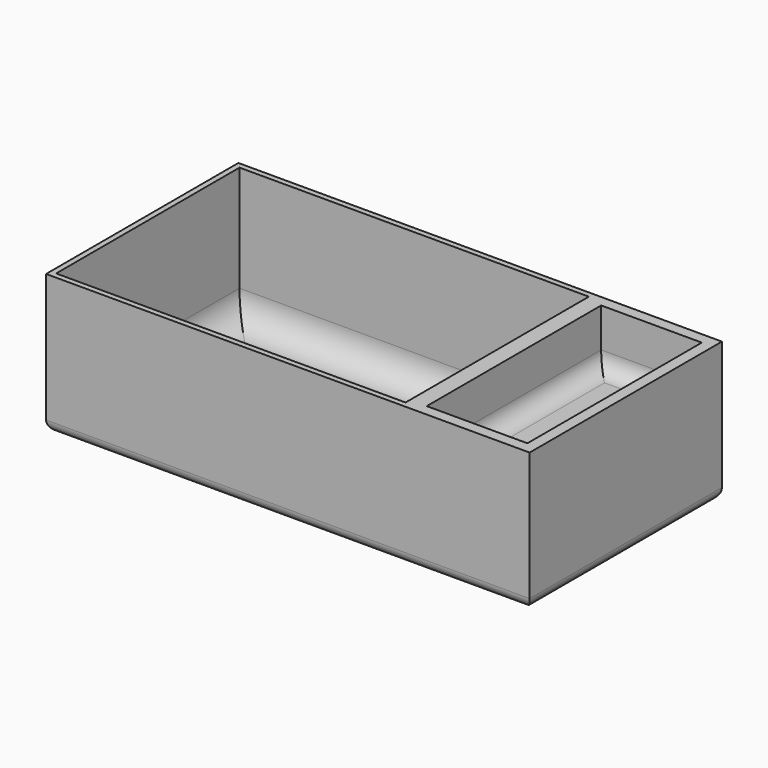
from build123d import *

# Parameters (mm, degrees)
SKETCH002_W     = 64.5
SKETCH002_H     = 43
PAD001_DEPTH    = 25
THICKNESS_T     = -1
FILLET001_R     = 5
SKETCH008_W     = 43
SKETCH008_H     = 25
PAD006_DEPTH    = 22
SKETCH009_W     = 18
SKETCH009_H     = 39
POCKET002_DEPTH = 10
FILLET005_R     = 3
FILLET006_R     = 2


with BuildPart() as part:
    # Sketch002 → Pad001 (new body)
    with BuildSketch(Plane.XY):
        Rectangle(SKETCH002_W, SKETCH002_H)
    extrude(amount=PAD001_DEPTH)

    # Thickness
    thickness_openings = [part.faces().sort_by_distance(p)[0] for p in [
        (0, 0, 25),
    ]]
    offset(amount=THICKNESS_T, openings=thickness_openings)

    # Fillet001
    fillet001_edges = [part.edges().sort_by_distance(p)[0] for p in [
        (0, 20.5, 1),
        (31.25, 0, 1),
        (0, -20.5, 1),
        (-31.25, 0, 1),
    ]]
    fillet(fillet001_edges, radius=FILLET001_R)

    # Sketch008 (on DatumPlane) → Pad006 (join)
    with BuildSketch(Plane.YZ.offset(32.25)):
        with Locations((0, 12.5)):
            Rectangle(SKETCH008_W, SKETCH008_H)
    extrude(amount=PAD006_DEPTH)

    # Sketch009 (on DatumPlane) → Pocket002 (cut)
    with BuildSketch(Plane.XY.offset(25)):
        with Locations((43.25, 0)):
            Rectangle(SKETCH009_W, SKETCH009_H)
    extrude(amount=-POCKET002_DEPTH, mode=Mode.SUBTRACT)

    # Fillet005
    fillet005_edges = [part.edges().sort_by_distance(p)[0] for p in [
        (43.25, 19.5, 15),
        (52.25, 0, 15),
        (43.25, -19.5, 15),
        (34.25, 0, 15),
    ]]
    fillet(fillet005_edges, radius=FILLET005_R)

    # Fillet006
    fillet006_edges = [part.edges().sort_by_distance(p)[0] for p in [
        (0, 21.5, 0),
        (32.25, 0, 0),
        (0, -21.5, 0),
        (-32.25, 0, 0),
        (43.25, 21.5, 0),
        (43.25, -21.5, 0),
        (54.25, 0, 0),
    ]]
    fillet(fillet006_edges, radius=FILLET006_R)


solid = part.part
